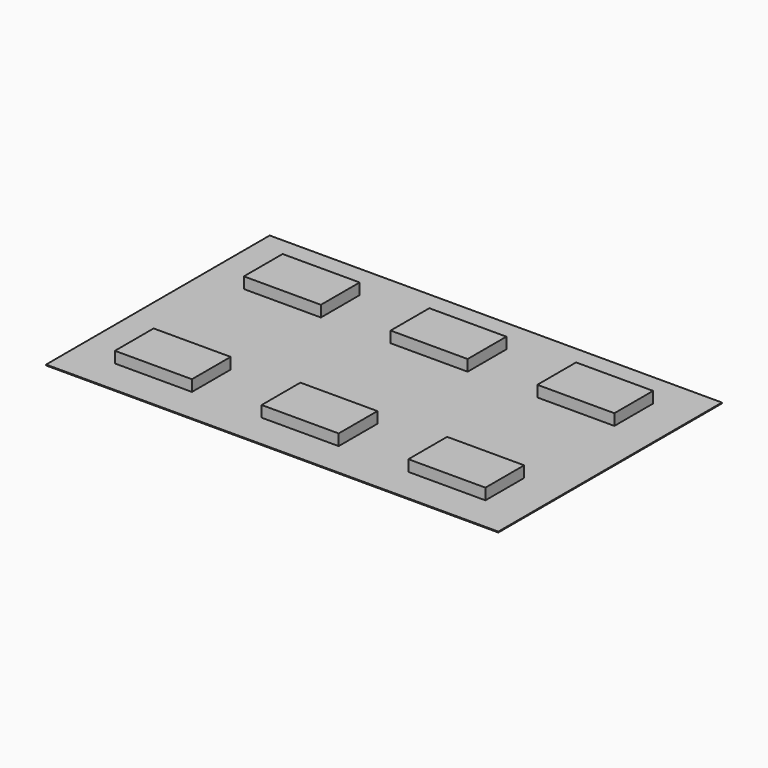
from build123d import *

# Parameters (mm, degrees)
F0_W     = 41.0972
F0_H     = 25.4
F1_DEPTH = 0.0762
F2_W     = 7
F2_H     = 4.4
F3_DEPTH = 1.016
F4_DEPTH = 0.2032


with BuildPart() as f1:
    # F0 (on Top) → F1 (new body)
    with BuildSketch(Plane.XY):
        Rectangle(F0_W, F0_H)
    extrude(amount=F1_DEPTH)

    # F2 (on face) → F3 (join)
    with BuildSketch(Plane.XY.offset(0.0762)):
        with Locations((-13.33512, 7.325)):
            Rectangle(F2_W, F2_H)
        with Locations((-13.33512, -7.32318)):
            Rectangle(F2_W, F2_H)
        with Locations((-0.00012, 7.325)):
            Rectangle(F2_W, F2_H)
        with Locations((-0.00012, -7.32318)):
            Rectangle(F2_W, F2_H)
        with Locations((13.33488, 7.325)):
            Rectangle(F2_W, F2_H)
        with Locations((13.33488, -7.32318)):
            Rectangle(F2_W, F2_H)
    extrude(amount=F3_DEPTH)

    # F2 (on face) → F4 (join)
    with BuildSketch(Plane.XY.offset(0.0762)):
        with Locations((-13.33512, 7.325)):
            Rectangle(F2_W, F2_H)
        with Locations((-13.33512, -7.32318)):
            Rectangle(F2_W, F2_H)
        with Locations((-0.00012, 7.325)):
            Rectangle(F2_W, F2_H)
        with Locations((-0.00012, -7.32318)):
            Rectangle(F2_W, F2_H)
        with Locations((13.33488, 7.325)):
            Rectangle(F2_W, F2_H)
        with Locations((13.33488, -7.32318)):
            Rectangle(F2_W, F2_H)
    extrude(amount=-F4_DEPTH)


solid = f1.part
